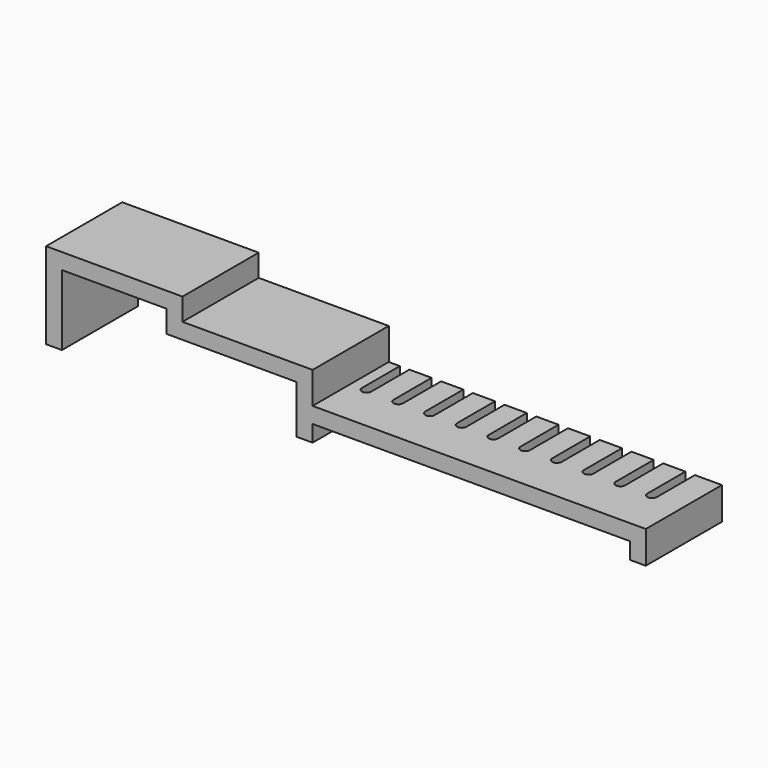
from build123d import *

# Parameters (mm, degrees)
F1_DEPTH = 15
F3_DEPTH = 25


with BuildPart() as f1:
    # F0 (on Front) → F1 (new body, symmetric)
    with BuildSketch(Plane.XZ):
        Polygon((-38, 0), (-33, 0), (-33, 22.2), (0, 22.2), (0, 15.2), (41, 15.2), (41, 0), (46, 0), (46, 5.2), (146, 5.2), (146, 0), (151, 0), (151, 10.2), (46, 10.2), (46, 20.2), (5, 20.2), (5, 27.2), (-38, 27.2), align=None)
    extrude(amount=F1_DEPTH, both=True)

    # F2 (on face) → F3 (cut)
    with BuildSketch(Plane(origin=(0, 0, 5.2), x_dir=(1, 0, 0), z_dir=(0, 0, -1))):
        with BuildLine():
            ThreePointArc((139.5, 0), (141, -1.5), (142.5, 0))
            ThreePointArc((142.5, 0), (141, 1.5), (139.5, 0))
        make_face()
        with BuildLine():
            Line((142.5, -15), (142.5, 0))
            ThreePointArc((142.5, 0), (141, -1.5), (139.5, 0))
            Line((139.5, 0), (139.5, -15))
            Line((139.5, -15), (142.5, -15))
        make_face()
        with BuildLine():
            ThreePointArc((129.5, 0), (131, -1.5), (132.5, 0))
            ThreePointArc((132.5, 0), (131, 1.5), (129.5, 0))
        make_face()
        with BuildLine():
            Line((132.5, -15), (132.5, 0))
            ThreePointArc((132.5, 0), (131, -1.5), (129.5, 0))
            Line((129.5, 0), (129.5, -15))
            Line((129.5, -15), (132.5, -15))
        make_face()
        with BuildLine():
            ThreePointArc((119.5, 0), (121, -1.5), (122.5, 0))
            ThreePointArc((122.5, 0), (121, 1.5), (119.5, 0))
        make_face()
        with BuildLine():
            Line((122.5, -15), (122.5, 0))
            ThreePointArc((122.5, 0), (121, -1.5), (119.5, 0))
            Line((119.5, 0), (119.5, -15))
            Line((119.5, -15), (122.5, -15))
        make_face()
        with BuildLine():
            ThreePointArc((109.5, 0), (111, -1.5), (112.5, 0))
            ThreePointArc((112.5, 0), (111, 1.5), (109.5, 0))
        make_face()
        with BuildLine():
            Line((112.5, -15), (112.5, 0))
            ThreePointArc((112.5, 0), (111, -1.5), (109.5, 0))
            Line((109.5, 0), (109.5, -15))
            Line((109.5, -15), (112.5, -15))
        make_face()
        with BuildLine():
            ThreePointArc((99.5, 0), (101, -1.5), (102.5, 0))
            ThreePointArc((102.5, 0), (101, 1.5), (99.5, 0))
        make_face()
        with BuildLine():
            Line((102.5, -15), (102.5, 0))
            ThreePointArc((102.5, 0), (101, -1.5), (99.5, 0))
            Line((99.5, 0), (99.5, -15))
            Line((99.5, -15), (102.5, -15))
        make_face()
        with BuildLine():
            ThreePointArc((89.5, 0), (91, -1.5), (92.5, 0))
            ThreePointArc((92.5, 0), (91, 1.5), (89.5, 0))
        make_face()
        with BuildLine():
            Line((92.5, -15), (92.5, 0))
            ThreePointArc((92.5, 0), (91, -1.5), (89.5, 0))
            Line((89.5, 0), (89.5, -15))
            Line((89.5, -15), (92.5, -15))
        make_face()
        with BuildLine():
            ThreePointArc((79.5, 0), (81, -1.5), (82.5, 0))
            ThreePointArc((82.5, 0), (81, 1.5), (79.5, 0))
        make_face()
        with BuildLine():
            Line((82.5, -15), (82.5, 0))
            ThreePointArc((82.5, 0), (81, -1.5), (79.5, 0))
            Line((79.5, 0), (79.5, -15))
            Line((79.5, -15), (82.5, -15))
        make_face()
        with BuildLine():
            ThreePointArc((69.5, 0), (71, -1.5), (72.5, 0))
            ThreePointArc((72.5, 0), (71, 1.5), (69.5, 0))
        make_face()
        with BuildLine():
            Line((72.5, -15), (72.5, 0))
            ThreePointArc((72.5, 0), (71, -1.5), (69.5, 0))
            Line((69.5, 0), (69.5, -15))
            Line((69.5, -15), (72.5, -15))
        make_face()
        with BuildLine():
            ThreePointArc((59.5, 0), (61, -1.5), (62.5, 0))
            ThreePointArc((62.5, 0), (61, 1.5), (59.5, 0))
        make_face()
        with BuildLine():
            Line((62.5, -15), (62.5, 0))
            ThreePointArc((62.5, 0), (61, -1.5), (59.5, 0))
            Line((59.5, 0), (59.5, -15))
            Line((59.5, -15), (62.5, -15))
        make_face()
        with BuildLine():
            ThreePointArc((49.5, 0), (51, -1.5), (52.5, 0))
            ThreePointArc((52.5, 0), (51, 1.5), (49.5, 0))
        make_face()
        with BuildLine():
            Line((52.5, -15), (52.5, 0))
            ThreePointArc((52.5, 0), (51, -1.5), (49.5, 0))
            Line((49.5, 0), (49.5, -15))
            Line((49.5, -15), (52.5, -15))
        make_face()
    extrude(amount=-F3_DEPTH, mode=Mode.SUBTRACT)


solid = f1.part
